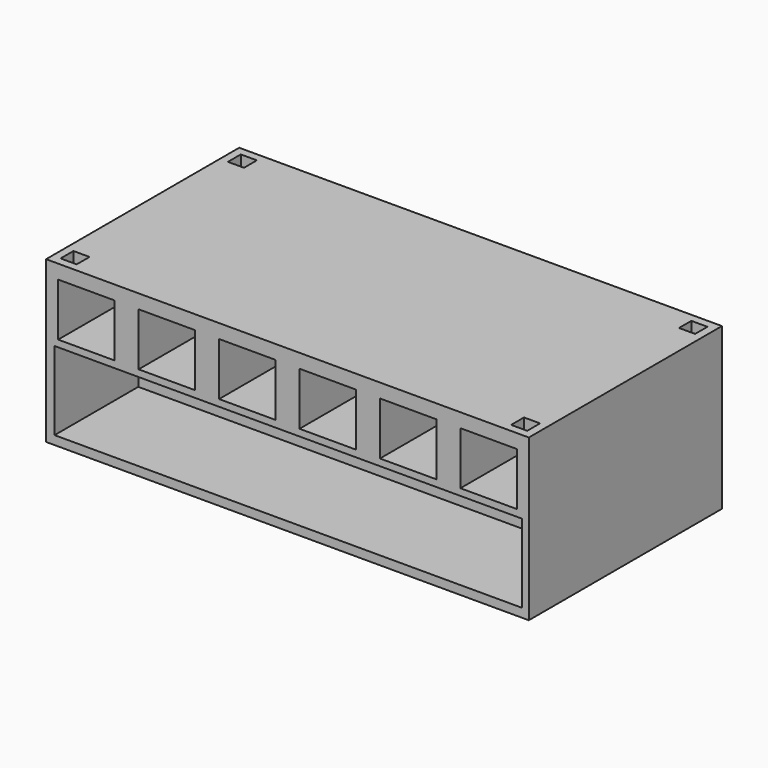
from build123d import *

# Parameters (mm, degrees)
F0_W      = 152.4
F0_H      = 25.4
F1_DEPTH  = 76.2
F2_W      = 17.78
F2_H      = 17.78
F2_H_2    = 17.502186
F2_H_3    = 17.781453
F3_DEPTH  = 33.02
F4_W      = 17.78
F4_H      = 16.6878
F5_DEPTH  = 33.02
F6_W      = 146.541581
F6_H      = 24.47215
F7_DEPTH  = 33.02
F8_W      = 147.48656
F8_H      = 24.775412
F10_DEPTH = 33.02
F11_W     = 5.08
F11_H     = 5.08
F11_H_2   = 4.8768
F11_H_3   = 5.080004
F12_DEPTH = 5.08


with BuildPart() as f1:
    # F0 (on Front) → F1 (new body)
    with BuildSketch(Plane.XZ):
        with Locations((-6.284538, 38.1)):
            Rectangle(F0_W, F0_H)
        with Locations((-6.284538, 12.7)):
            Rectangle(F0_W, F0_H)
    extrude(amount=F1_DEPTH)

    # F2 (on Front) → F3 (cut)
    with BuildSketch(Plane.XZ):
        with Locations((-68.533134, 38.567891)):
            Rectangle(F2_W, F2_H)
        with Locations((-41.029694, 38.706798)):
            Rectangle(F2_W, F2_H_2)
        with Locations((-14.915321, 38.673893)):
            Rectangle(F2_W, F2_H_3)
        with Locations((11.754678, 38.673893)):
            Rectangle(F2_W, F2_H_3)
        with Locations((36.757799, 38.673893)):
            Rectangle(F2_W, F2_H_3)
        with Locations((59.816236, 38.673893)):
            Rectangle(F2_W, F2_H_3)
    extrude(amount=F3_DEPTH, mode=Mode.SUBTRACT)

    # F4 (on face) → F5 (cut)
    with BuildSketch(Plane.XZ.offset(76.2)):
        with Locations((-69.784538, 38.026275)):
            Rectangle(F4_W, F4_H)
        with Locations((-44.384538, 38.026275)):
            Rectangle(F4_W, F4_H)
        with Locations((-18.984538, 38.026275)):
            Rectangle(F4_W, F4_H)
        with Locations((6.415462, 38.026275)):
            Rectangle(F4_W, F4_H)
        with Locations((31.815462, 38.026275)):
            Rectangle(F4_W, F4_H)
        with Locations((57.215462, 38.026275)):
            Rectangle(F4_W, F4_H)
    extrude(amount=-F5_DEPTH, mode=Mode.SUBTRACT)

    # F6 (on Front) → F7 (cut)
    with BuildSketch(Plane.XZ):
        with Locations((-6.280116, 14.999481)):
            Rectangle(F6_W, F6_H)
    extrude(amount=F7_DEPTH, mode=Mode.SUBTRACT)

    # F8 (on face) → F10 (cut)
    with BuildSketch(Plane.XZ.offset(76.2)):
        with Locations((-6.05702, 15.156722)):
            Rectangle(F8_W, F8_H)
    extrude(amount=-F10_DEPTH, mode=Mode.SUBTRACT)

    # F11 (on face) → F12 (cut)
    with BuildSketch(Plane.XY.offset(50.8)):
        with Locations((-77.404538, -5.08)):
            Rectangle(F11_W, F11_H)
        with Locations((64.835462, -4.9784)):
            Rectangle(F11_W, F11_H_2)
        with Locations((64.835462, -71.12)):
            Rectangle(F11_W, F11_H)
        with Locations((-77.404538, -71.119998)):
            Rectangle(F11_W, F11_H_3)
    extrude(amount=-F12_DEPTH, mode=Mode.SUBTRACT)


solid = f1.part
